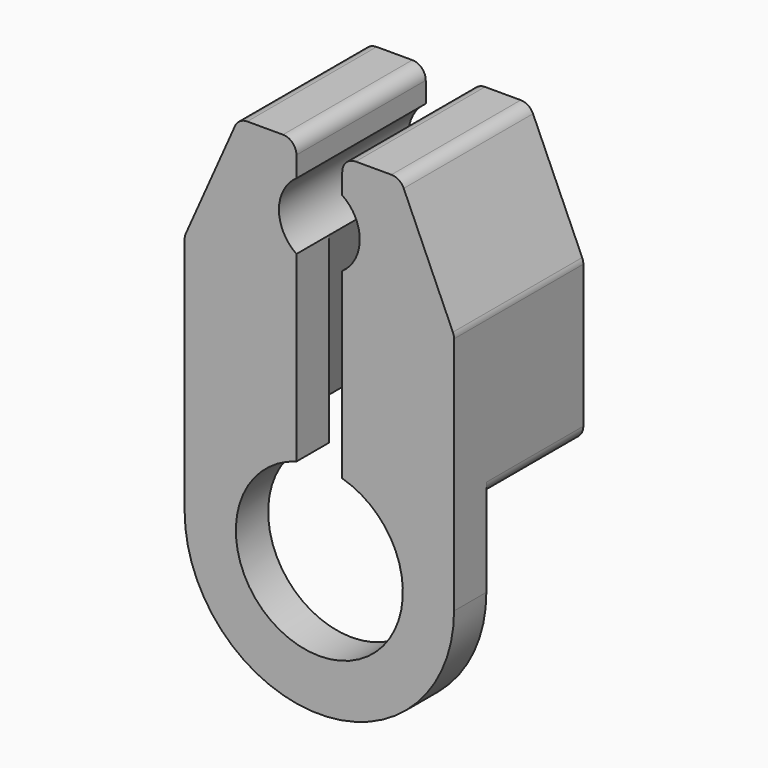
from build123d import *

# Parameters (mm, degrees)
F1_DEPTH = 1.5
F3_DEPTH = 4.5
F4_R     = 0.5


with BuildPart() as f1:
    # F0 (on Front) → F1 (new body)
    with BuildSketch(Plane.XZ):
        with BuildLine():
            ThreePointArc((0.85, 2.9811910372), (0, -3.1), (-0.85, 2.9811910372))
            Line((-0.85, 2.9811910372), (-0.85, 9.7640792906))
            ThreePointArc((-0.85, 9.7640792906), (-1.5, 11), (-0.85, 12.2359207094))
            Line((-0.85, 12.2359207094), (-0.85, 13.5))
            Line((-0.85, 13.5), (-3, 13.5))
            Line((-3, 13.5), (-5, 9))
            Line((-5, 9), (-5, 0))
            ThreePointArc((-5, 0), (0, -5), (5, 0))
            Line((5, 0), (5, 9))
            Line((5, 9), (3, 13.5))
            Line((3, 13.5), (0.85, 13.5))
            Line((0.85, 13.5), (0.85, 12.2359207094))
            ThreePointArc((0.85, 12.2359207094), (1.5, 11), (0.85, 9.7640792906))
            Line((0.85, 9.7640792906), (0.85, 2.9811910372))
        make_face()
    extrude(amount=F1_DEPTH)

    # F2 (on face) → F3 (join)
    with BuildSketch(Plane(origin=(0, 0, 0), x_dir=(-1, 0, 0), z_dir=(0, 1, 0))):
        with BuildLine():
            Line((0.85, 9.7640792906), (2.590399856, 3.1))
            Line((2.590399856, 3.1), (5, 3.1))
            Line((5, 3.1), (5, 9))
            Line((5, 9), (3, 13.5))
            Line((3, 13.5), (0.85, 13.5))
            Line((0.85, 13.5), (0.85, 12.2359207094))
            ThreePointArc((0.85, 12.2359207094), (1.5, 11), (0.85, 9.7640792906))
        make_face()
        with BuildLine():
            Line((-5, 3.1), (-2.590399856, 3.1))
            Line((-2.590399856, 3.1), (-0.85, 9.7640792906))
            ThreePointArc((-0.85, 9.7640792906), (-1.5, 11), (-0.85, 12.2359207094))
            Line((-0.85, 12.2359207094), (-0.85, 13.5))
            Line((-0.85, 13.5), (-3, 13.5))
            Line((-3, 13.5), (-5, 9))
            Line((-5, 9), (-5, 3.1))
        make_face()
    extrude(amount=F3_DEPTH)

    # F4
    f4_edges = [f1.edges().sort_by_distance(p)[0] for p in [
        (3, 1.5, 13.5),
        (5, 1.5, 9),
        (-3, 1.5, 13.5),
        (-5, 1.5, 9),
        (0.85, 1.5, 13.5),
        (-0.85, 1.5, 13.5),
        (5, 2.25, 3.1),
        (-5, 2.25, 3.1),
    ]]
    fillet(f4_edges, radius=F4_R)


solid = f1.part
